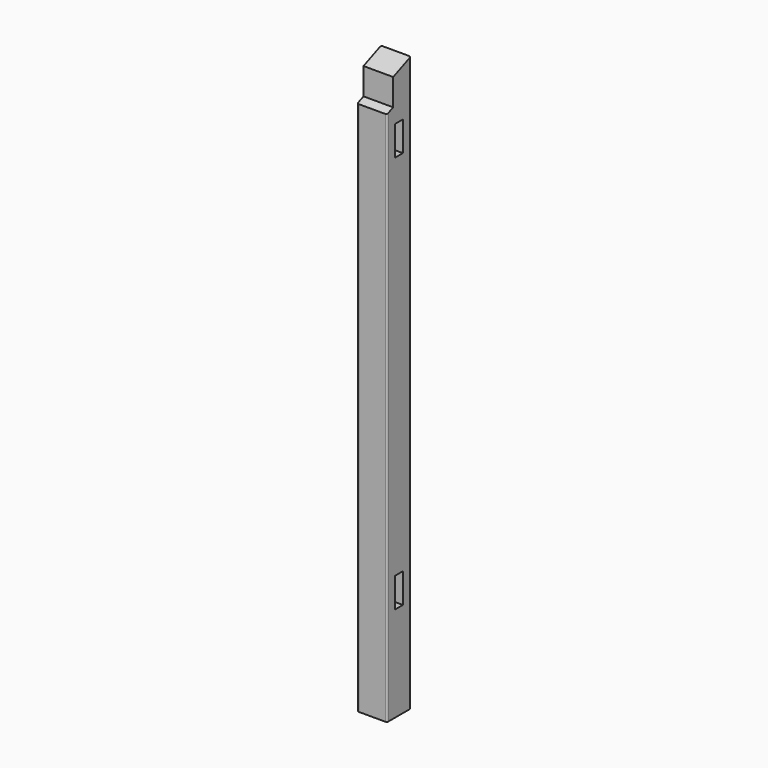
from build123d import *

# Parameters (mm, degrees)
F0_W     = 88
F0_H     = 88
F1_DEPTH = 1700
F3_DEPTH = 31
F5_DEPTH = 31
F7_DEPTH = 88.001
F9_DEPTH = 88.001
F10_R    = 5


with BuildPart() as f1:
    # F0 (on Top) → F1 (new body)
    with BuildSketch(Plane.XY):
        with Locations((44, 44)):
            Rectangle(F0_W, F0_H)
    extrude(amount=F1_DEPTH)

    # F2 (on face) → F3 (cut)
    with BuildSketch(Plane.YZ.offset(88)):
        Polygon((29, 282), (44, 282), (59, 282), (59, 370), (29, 370), align=None)
    extrude(amount=-F3_DEPTH, mode=Mode.SUBTRACT)

    # F4 (on face) → F5 (cut)
    with BuildSketch(Plane.YZ.offset(88)):
        Polygon((29, 1460), (44, 1460), (59, 1460), (59, 1548), (29, 1548), align=None)
    extrude(amount=-F5_DEPTH, mode=Mode.SUBTRACT)

    # F6 (on face) → F7 (cut, through all)
    with BuildSketch(Plane.YZ.offset(88)):
        Polygon((0, 1663.5492065112), (88, 1700), (0, 1700), align=None)
    extrude(amount=-F7_DEPTH, mode=Mode.SUBTRACT)

    # F8 (on face) → F9 (cut, through all)
    with BuildSketch(Plane.YZ.offset(88)):
        Polygon((23, 1594.0761184457), (23, 1673.0761184457), (0, 1663.5492065112), (0, 1584.5492065112), align=None)
    extrude(amount=-F9_DEPTH, mode=Mode.SUBTRACT)

    # F10
    f10_edges = [f1.edges().sort_by_distance(p)[0] for p in [
        (0, 0, 792.274603),
        (88, 0, 792.274603),
        (88, 88, 850),
        (0, 88, 850),
    ]]
    fillet(f10_edges, radius=F10_R)


solid = f1.part
